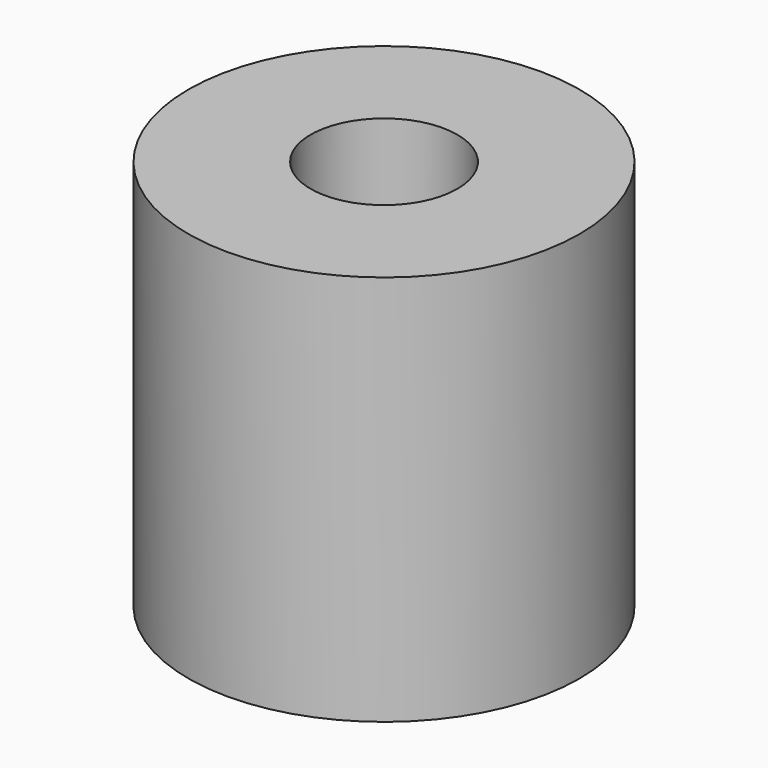
from build123d import *

# Parameters (mm, degrees)
F0_R     = 12.7
F0_R_2   = 6.35
F0_R_3   = 4.7625
F1_DEPTH = 25.4


with BuildPart() as f1:
    # F0 (on Top) → F1 (new body)
    with BuildSketch(Plane.XY):
        Circle(F0_R)
        Circle(F0_R_2, mode=Mode.SUBTRACT)
        Circle(F0_R_2)
        Circle(F0_R_3, mode=Mode.SUBTRACT)
    extrude(amount=F1_DEPTH)


solid = f1.part
